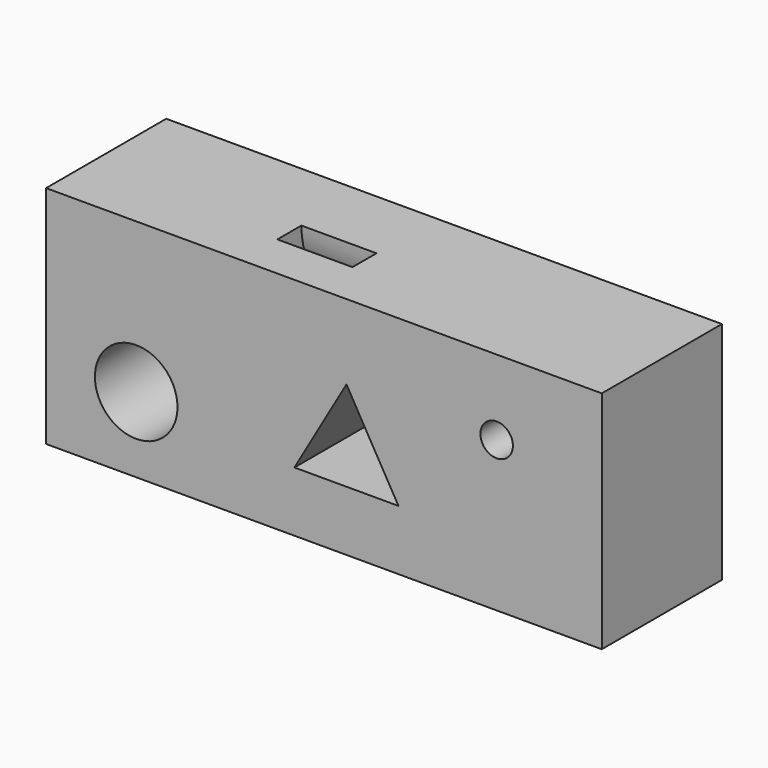
from build123d import *

# Parameters (mm, degrees)
F0_W     = 93.98
F0_H     = 38.1
F0_R     = 6.985
F1_DEPTH = 25.4
F3_D     = 5.5
F4_W     = 12.7
F4_H     = 5.08


with BuildPart() as f1:
    # F0 (on Front) → F1 (new body)
    with BuildSketch(Plane.XZ):
        with Locations((46.99, 19.05)):
            Rectangle(F0_W, F0_H)
        with Locations((15.24, 12.7)):
            Circle(F0_R, mode=Mode.SUBTRACT)
        Polygon((42.0011818976, 10.16), (50.8, 25.4), (59.5988181024, 10.16), align=None, mode=Mode.SUBTRACT)
    extrude(amount=F1_DEPTH)

    # F3 (through all)
    with Locations(Plane.XZ.offset(25.4)):
        with Locations((76.2, 25.4)):
            Hole(F3_D / 2)

    # F4 (on face) → F5 (revolve, cut)
    with BuildSketch(Plane.XY.offset(38.1)):
        with Locations((39.37, -15.24)):
            Rectangle(F4_W, F4_H)
    revolve(axis=Axis((46.99, 0, 38.1), (1, 0, 0)), mode=Mode.SUBTRACT)


solid = f1.part
